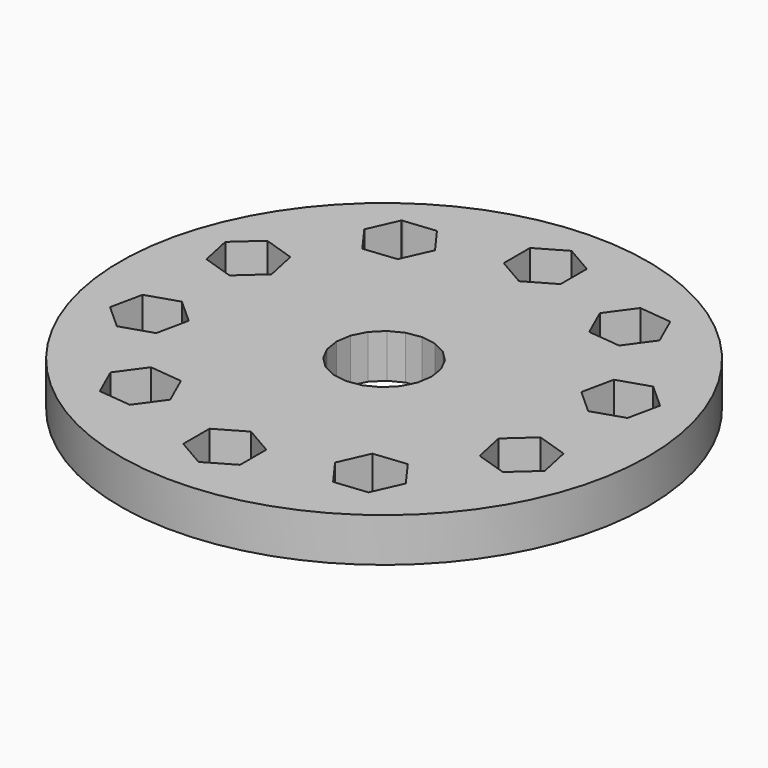
from build123d import *

# Parameters (mm, degrees)
F0_R     = 76.4587467439
F1_DEPTH = 12.7


with BuildPart() as f1:
    # F0 (on Top) → F1 (new body)
    with BuildSketch(Plane.XY):
        Circle(F0_R)
        with BuildLine():
            ThreePointArc((0, 67.8734653551), (47.9937876152, 47.9937876152), (67.8734653551, 0))
            ThreePointArc((67.8734653551, 0), (-31.0463451655, -60.3567042769), (-39.4713337388, 55.2161309057))
            Line((-39.4713337388, 55.2161309057), (-39.3394193415, 55.5124154929))
            Line((-39.3394193415, 55.5124154929), (-39.0032717993, 55.5477460232))
            ThreePointArc((-39.0032717993, 55.5477460232), (-20.4522527371, 64.7187195276), (0, 67.8734653551))
        make_face(mode=Mode.SUBTRACT)
        with BuildLine():
            ThreePointArc((-39.4713337388, 55.2161309057), (-31.0463451655, -60.3567042769), (67.8734653551, 0))
            ThreePointArc((67.8734653551, 0), (47.9937876152, 47.9937876152), (0, 67.8734653551))
            ThreePointArc((0, 67.8734653551), (-20.4522527371, 64.7187195276), (-39.0032717993, 55.5477460232))
            Line((-39.0032717993, 55.5477460232), (-29.885018528, 56.5061130603))
            Line((-29.885018528, 56.5061130603), (-24.2972507842, 48.8152105619))
            Line((-24.2972507842, 48.8152105619), (-28.1638838539, 40.1306104961))
            Line((-28.1638838539, 40.1306104961), (-37.6182846674, 39.1369129287))
            Line((-37.6182846674, 39.1369129287), (-43.2060524113, 46.8278154271))
            Line((-43.2060524113, 46.8278154271), (-39.4713337388, 55.2161309057))
        make_face()
        Polygon((-30.9335204728, -53.4327342282), (-40.3879212864, -52.4390366608), (-44.2545543561, -43.754436595), (-38.6667866123, -36.0635340966), (-29.2123857987, -37.057231664), (-25.345752729, -45.7418317298), align=None, mode=Mode.SUBTRACT)
        Polygon((6.9368320268, -60.8086286285), (-1.2960196783, -65.5618677767), (-9.5288713835, -60.8086286285), (-9.5288713835, -51.3021503321), (-1.2960196783, -46.548911184), (6.9368320268, -51.3021503321), align=None, mode=Mode.SUBTRACT)
        Polygon((-57.235837277, -25.2058756113), (-64.3005274315, -18.8448000245), (-62.3240194552, -9.5460610875), (-53.2828213244, -6.6083977373), (-46.21813117, -12.969473324), (-48.1946391463, -22.268212261), align=None, mode=Mode.SUBTRACT)
        Polygon((41.9100327329, -44.5162178486), (38.0433996632, -53.2008179144), (28.5889988496, -54.1945154818), (23.0012311058, -46.5036129834), (26.8678641755, -37.8190129176), (36.3222649891, -36.8253153502), align=None, mode=Mode.SUBTRACT)
        Polygon((60.6275076712, -10.7786490478), (62.6040156475, -20.0773879848), (55.539325493, -26.4384635716), (46.4981273623, -23.5008002214), (44.521619386, -14.2020612844), (51.5863095404, -7.8409856976), align=None, mode=Mode.SUBTRACT)
        Polygon((-61.9235273495, 13.0902466263), (-63.9000353258, 22.3889855633), (-56.8353451714, 28.7500611501), (-47.7941470406, 25.8123977998), (-45.8176390643, 16.5136588628), (-52.8823292188, 10.1525832761), align=None, mode=Mode.SUBTRACT)
        Polygon((4.2561218167, 13.0989960474), (8.0956247758, 11.1426715763), (11.1426715763, 8.0956247758), (13.0989960474, 4.2561218167), (13.7730995193, 0), (13.0989960474, -4.2561218167), (11.1426715763, -8.0956247758), (8.0956247758, -11.1426715763), (4.2561218167, -13.0989960474), (0, -13.7730995193), (-4.2561218167, -13.0989960474), (-8.0956247758, -11.1426715763), (-11.1426715763, -8.0956247758), (-13.0989960474, -4.2561218167), (-13.7730995193, 0), (-13.0989960474, 4.2561218167), (-11.1426715763, 8.0956247758), (-8.0956247758, 11.1426715763), (-4.2561218167, 13.0989960474), (0, 13.7730995193), align=None, mode=Mode.SUBTRACT)
        Polygon((55.9398175987, 27.5174731897), (63.0045077531, 21.156397603), (61.0279997768, 11.857658666), (51.9868016461, 8.9199953157), (44.9221114916, 15.2810709025), (46.8986194679, 24.5798098395), align=None, mode=Mode.SUBTRACT)
        Polygon((29.6375007945, 55.7443318067), (39.091901608, 54.7506342393), (42.9585346778, 46.0660341735), (37.3707669339, 38.3751316751), (27.9163661204, 39.3688292425), (24.0497330506, 48.0534293083), align=None, mode=Mode.SUBTRACT)
        Polygon((-8.2328517052, 63.1202262069), (0, 67.8734653551), (8.2328517052, 63.1202262069), (8.2328517052, 53.6137479106), (0, 48.8605087624), (-8.2328517052, 53.6137479106), align=None, mode=Mode.SUBTRACT)
    extrude(amount=F1_DEPTH)


solid = f1.part
